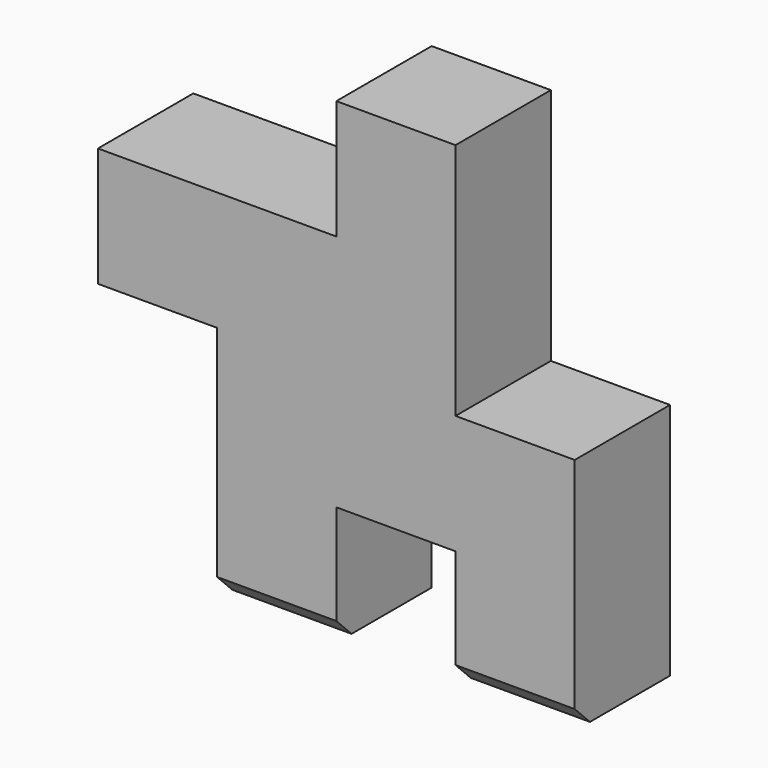
from build123d import *

# Parameters (mm, degrees)
F1_DEPTH = 6.35
F2_SIZE  = 1.016


with BuildPart() as f1:
    # F0 (on Front) → F1 (new body)
    with BuildSketch(Plane.XZ):
        Polygon((6.35, 0), (6.35, 12.7), (0, 12.7), (0, 6.35), (-12.7, 6.35), (-12.7, 0), (-6.35, 0), (-6.35, -12.7), (0, -12.7), (0, -6.35), (6.35, -6.35), align=None)
        Polygon((12.7, 0), (6.35, 0), (6.35, -6.35), (6.35, -12.7), (12.7, -12.7), align=None)
    extrude(amount=F1_DEPTH)

    # F2
    f2_edges = [f1.edges().sort_by_distance(p)[0] for p in [
        (-3.175, -6.35, -12.7),
        (9.525, -6.35, -12.7),
    ]]
    chamfer(f2_edges, length=F2_SIZE)


solid = f1.part
